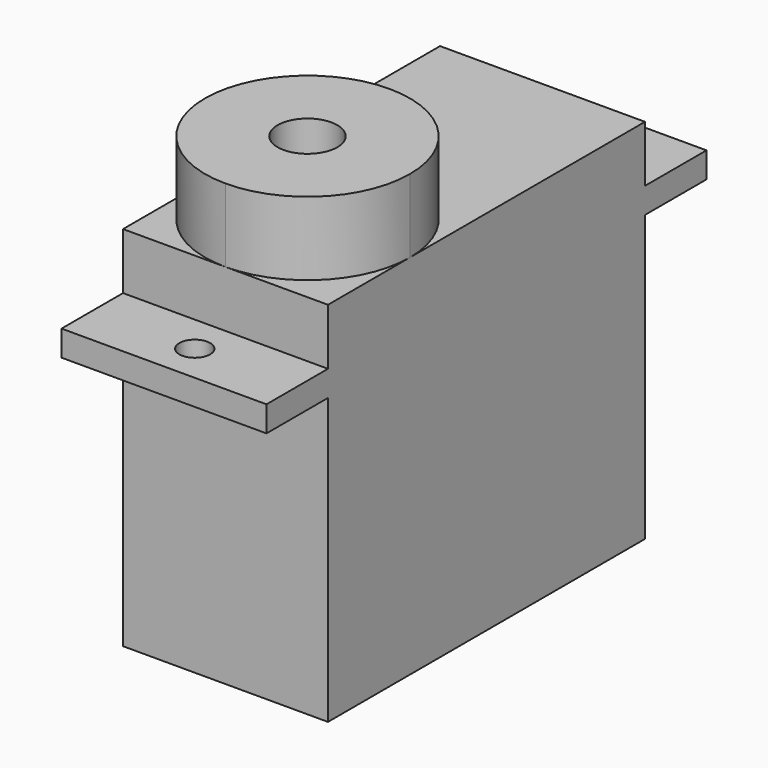
from build123d import *

# Parameters (mm, degrees)
F0_W     = 4.5
F0_H     = 1.5
F1_DEPTH = 6
F2_R     = 0.9
F3_DEPTH = 18.201
F5_DEPTH = 4.3
F6_R     = 1.75
F7_DEPTH = 10


with BuildPart() as f1:
    # F0 (on Right) → F1 (new body, symmetric)
    with BuildSketch(Plane.YZ):
        Polygon((23.2, 21.5), (0, 21.5), (0, 18.2), (0, 16.7), (0, 0), (23.2, 0), (23.2, 16.7), (23.2, 18.2), align=None)
        with Locations((-2.25, 17.45)):
            Rectangle(F0_W, F0_H)
        with Locations((25.45, 17.45)):
            Rectangle(F0_W, F0_H)
    extrude(amount=F1_DEPTH, both=True)

    # F2 (on face) → F3 (cut, through all)
    with BuildSketch(Plane.XY.offset(18.2)):
        with Locations((0, -2.25)):
            Circle(F2_R)
        with Locations((0, 25.45)):
            Circle(F2_R)
    extrude(amount=-F3_DEPTH, mode=Mode.SUBTRACT)

    # F4 (on face) → F5 (join)
    with BuildSketch(Plane.XY.offset(21.5)):
        with BuildLine():
            ThreePointArc((0, 0), (4.242641, 1.757359), (6, 6))
            ThreePointArc((6, 6), (0, 12), (-6, 6))
            ThreePointArc((-6, 6), (-4.242641, 1.757359), (0, 0))
        make_face()
    extrude(amount=F5_DEPTH)

    # F6 (on face) → F7 (cut)
    with BuildSketch(Plane.XY.offset(25.8)):
        with Locations((0, 6)):
            Circle(F6_R)
    extrude(amount=-F7_DEPTH, mode=Mode.SUBTRACT)


solid = f1.part
